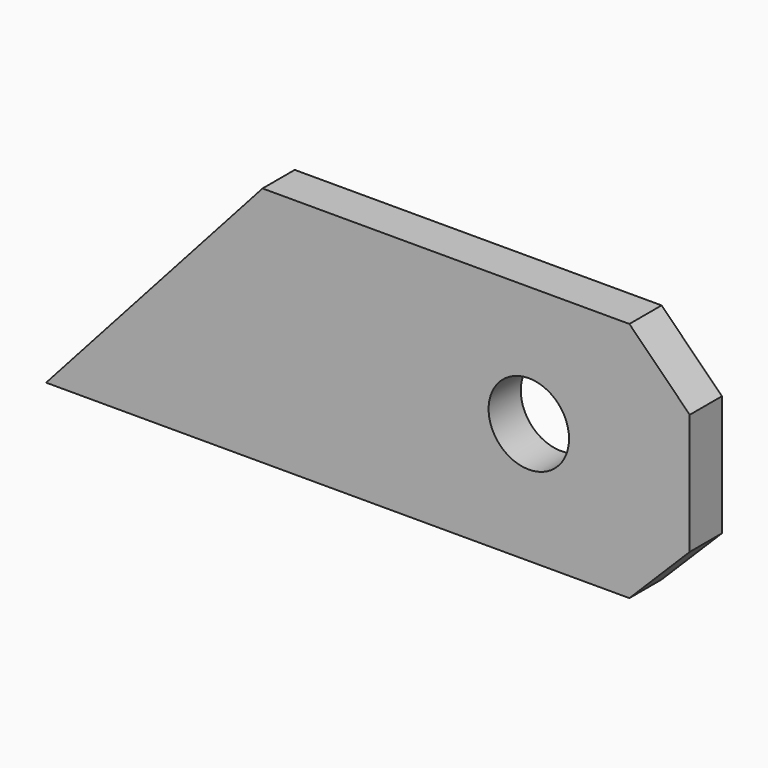
from build123d import *

# Parameters (mm, degrees)
F0_W     = 160
F0_H     = 60
F0_R     = 10
F1_DEPTH = 5
F2_SIZE  = 15
F4_DEPTH = 25


with BuildPart() as f1:
    # F0 (on Front) → F1 (new body, symmetric)
    with BuildSketch(Plane.XZ):
        Rectangle(F0_W, F0_H)
        with Locations((40, 0)):
            Circle(F0_R, mode=Mode.SUBTRACT)
    extrude(amount=F1_DEPTH, both=True)

    # F2
    f2_edges = [f1.edges().sort_by_distance(p)[0] for p in [
        (80, 0, 30),
        (80, 0, -30),
    ]]
    chamfer(f2_edges, length=F2_SIZE)

    # F3 (on face) → F4 (cut)
    with BuildSketch(Plane.XZ.offset(5)):
        Polygon((-80, 30), (-80, -30), (-26.189647, 30), align=None)
    extrude(amount=-F4_DEPTH, mode=Mode.SUBTRACT)


solid = f1.part
